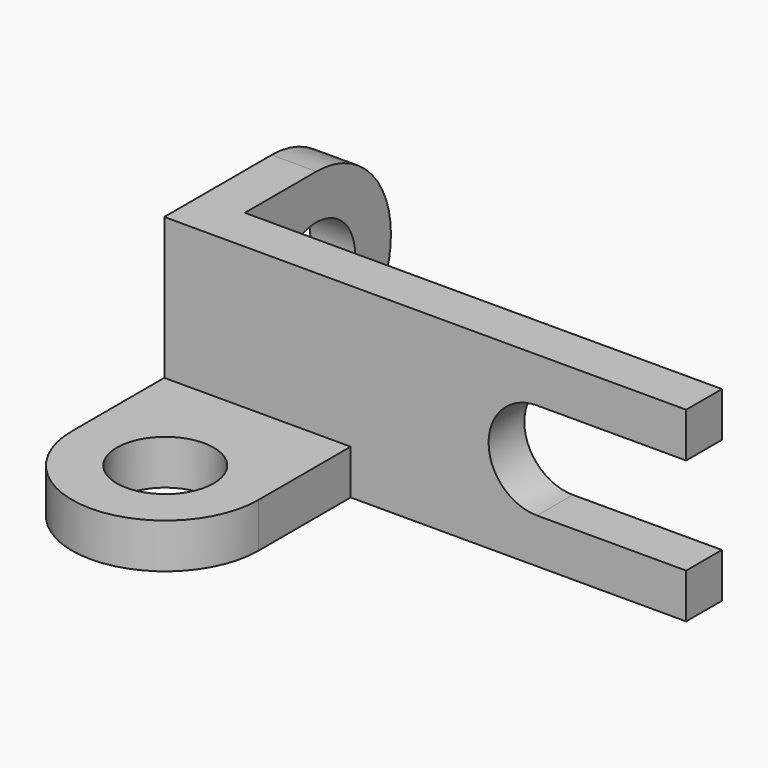
from build123d import *

# Parameters (mm, degrees)
F1_DEPTH = 6
F3_DEPTH = 6
F5_DEPTH = 6


with BuildPart() as f1:
    # F0 (on Front) → F1 (new body)
    with BuildSketch(Plane.XZ):
        with BuildLine():
            Line((32, 12.5), (-32, 12.5))
            Line((-32, 12.5), (-32, -12.5))
            Line((-32, -12.5), (32, -12.5))
            Line((32, -12.5), (32, -6.5))
            Line((32, -6.5), (12, -6.5))
            ThreePointArc((12, -6.5), (5.5, 0), (12, 6.5))
            Line((12, 6.5), (32, 6.5))
            Line((32, 6.5), (32, 12.5))
        make_face()
    extrude(amount=F1_DEPTH)

    # F2 (on face) → F3 (join)
    with BuildSketch(Plane(origin=(-32, 0, 0), x_dir=(0, -1, 0), z_dir=(-1, 0, 0))):
        with BuildLine():
            Line((6, -12.5), (6, 12.5))
            Line((6, 12.5), (-12, 12.5))
            ThreePointArc((-12, 12.5), (-3.1611652352, 8.8388347648), (0.5, 0))
            ThreePointArc((0.5, 0), (-3.1611652352, -8.8388347648), (-12, -12.5))
            Line((-12, -12.5), (6, -12.5))
        make_face()
        with BuildLine():
            ThreePointArc((0.5, 0), (-3.1611652352, 8.8388347648), (-12, 12.5))
            Line((-12, 12.5), (-12, 6.5))
            ThreePointArc((-12, 6.5), (-7.4038059223, 4.5961940777), (-5.5, 0))
            ThreePointArc((-5.5, 0), (-7.4038059223, -4.5961940777), (-12, -6.5))
            Line((-12, -6.5), (-12, -12.5))
            ThreePointArc((-12, -12.5), (-3.1611652352, -8.8388347648), (0.5, 0))
        make_face()
        with BuildLine():
            Line((-12, 6.5), (-12, 12.5))
            ThreePointArc((-12, 12.5), (-24.5, 0), (-12, -12.5))
            Line((-12, -12.5), (-12, -6.5))
            ThreePointArc((-12, -6.5), (-18.5, 0), (-12, 6.5))
        make_face()
    extrude(amount=F3_DEPTH)

    # F4 (on face) → F5 (join)
    with BuildSketch(Plane(origin=(0, 0, -12.5), x_dir=(1, 0, 0), z_dir=(0, 0, -1))):
        with BuildLine():
            ThreePointArc((-13, 21.4638169855), (-25.5, 33.9638169855), (-38, 21.4638169855))
            Line((-38, 21.4638169855), (-32, 21.4638169855))
            ThreePointArc((-32, 21.4638169855), (-25.5, 27.9638169855), (-19, 21.4638169855))
            Line((-19, 21.4638169855), (-13, 21.4638169855))
        make_face()
        with BuildLine():
            Line((-32, 21.4638169855), (-38, 21.4638169855))
            ThreePointArc((-38, 21.4638169855), (-25.5, 8.9638169855), (-13, 21.4638169855))
            Line((-13, 21.4638169855), (-19, 21.4638169855))
            ThreePointArc((-19, 21.4638169855), (-25.5, 14.9638169855), (-32, 21.4638169855))
        make_face()
        Polygon((-38, 6), (-38, 0), (-32, 0), (-13, 0), (-13, 6), align=None)
        with BuildLine():
            Line((-38, 21.4638169855), (-38, 6))
            Line((-38, 6), (-13, 6))
            Line((-13, 6), (-13, 21.4638169855))
            ThreePointArc((-13, 21.4638169855), (-25.5, 8.9638169855), (-38, 21.4638169855))
        make_face()
    extrude(amount=-F5_DEPTH)


solid = f1.part
